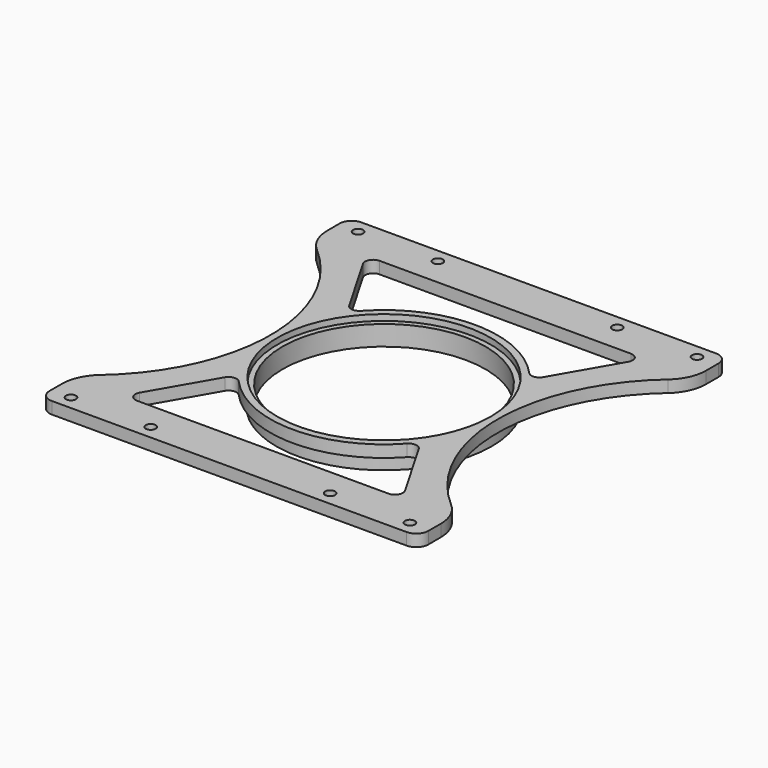
from build123d import *

# Parameters (mm, degrees)
SKETCH006_R     = 27
SKETCH006_R_2   = 25.45
PAD003_DEPTH    = 3.5
SKETCH007_W     = 95
SKETCH007_H     = 97
SKETCH007_R     = 25.45
PAD004_DEPTH    = 3
SKETCH008_R     = 26.765
POCKET_DEPTH    = 1.5
SKETCH009_R     = 1.25
POCKET001_DEPTH = 6.501
SKETCH010_R     = 45
POCKET002_DEPTH = 6.501
FILLET_R        = 10
FILLET001_R     = 3


with BuildPart() as part:
    # Sketch006 → Pad003 (new body)
    with BuildSketch(Plane.XY):
        Circle(SKETCH006_R)
        Circle(SKETCH006_R_2, mode=Mode.SUBTRACT)
    extrude(amount=PAD003_DEPTH)

    # Sketch007 (on Face4 of Pad003) → Pad004 (join)
    with BuildSketch(Plane.XY.offset(3.5)):
        Rectangle(SKETCH007_W, SKETCH007_H)
        Circle(SKETCH007_R, mode=Mode.SUBTRACT)
    extrude(amount=PAD004_DEPTH)

    # Sketch008 (on Face10 of Pad004) → Pocket (cut)
    with BuildSketch(Plane.XY.offset(6.5)):
        Circle(SKETCH008_R)
    extrude(amount=-POCKET_DEPTH, mode=Mode.SUBTRACT)

    # Sketch009 (on Face10 of Pocket) → Pocket001 (cut, through all)
    with BuildSketch(Plane.XY.offset(6.5)):
        with Locations((-42.5, 45)):
            Circle(SKETCH009_R)
        with Locations((42.5, 45)):
            Circle(SKETCH009_R)
        with Locations((42.5, -45)):
            Circle(SKETCH009_R)
        with Locations((-42.5, -45)):
            Circle(SKETCH009_R)
        with Locations((-22.5, 45)):
            Circle(SKETCH009_R)
        with Locations((22.5, 45)):
            Circle(SKETCH009_R)
        with Locations((-22.5, -45)):
            Circle(SKETCH009_R)
        with Locations((22.5, -45)):
            Circle(SKETCH009_R)
    extrude(amount=-POCKET001_DEPTH, mode=Mode.SUBTRACT)

    # Sketch010 (on Face18 of Pocket001) → Pocket002 (cut, through all)
    with BuildSketch(Plane.XY.offset(6.5)):
        with Locations((-73.5, 0)):
            Circle(SKETCH010_R)
        with Locations((73.5, 0)):
            Circle(SKETCH010_R)
        with BuildLine():
            Line((-31.535898, 38), (31.535898, 38))
            ThreePointArc((33.267949, 35), (33.267949, 37), (31.535898, 38))
            Line((33.267949, 35), (24.317547, 19.497448))
            ThreePointArc((21.10448, 19.153353), (22.798463, 18.508819), (24.317547, 19.497448))
            ThreePointArc((21.10448, 19.153353), (0, 28.5), (-21.10448, 19.153353))
            ThreePointArc((-24.317547, 19.497448), (-22.798463, 18.508819), (-21.10448, 19.153353))
            Line((-33.267949, 35), (-24.317547, 19.497448))
            ThreePointArc((-31.535898, 38), (-33.267949, 37), (-33.267949, 35))
        make_face()
        with BuildLine():
            Line((-31.535898, -38), (31.535898, -38))
            ThreePointArc((31.535898, -38), (33.267949, -37), (33.267949, -35))
            Line((33.267949, -35), (24.317547, -19.497448))
            ThreePointArc((24.317547, -19.497448), (22.798463, -18.508819), (21.10448, -19.153353))
            ThreePointArc((-21.10448, -19.153353), (0, -28.5), (21.10448, -19.153353))
            ThreePointArc((-21.10448, -19.153353), (-22.798463, -18.508819), (-24.317547, -19.497448))
            Line((-33.267949, -35), (-24.317547, -19.497448))
            ThreePointArc((-33.267949, -35), (-33.267949, -37), (-31.535898, -38))
        make_face()
    extrude(amount=-POCKET002_DEPTH, mode=Mode.SUBTRACT)

    # Fillet
    fillet_edges = [part.edges().sort_by_distance(p)[0] for p in [
        (47.5, -36.728735, 5),
        (47.5, 36.728735, 5),
        (-47.5, -36.728735, 5),
        (-47.5, 36.728735, 5),
    ]]
    fillet(fillet_edges, radius=FILLET_R)

    # Fillet001
    fillet001_edges = [part.edges().sort_by_distance(p)[0] for p in [
        (-47.5, 48.5, 5),
        (-47.5, -48.5, 5),
        (47.5, 48.5, 5),
        (47.5, -48.5, 5),
    ]]
    fillet(fillet001_edges, radius=FILLET001_R)


solid = part.part
